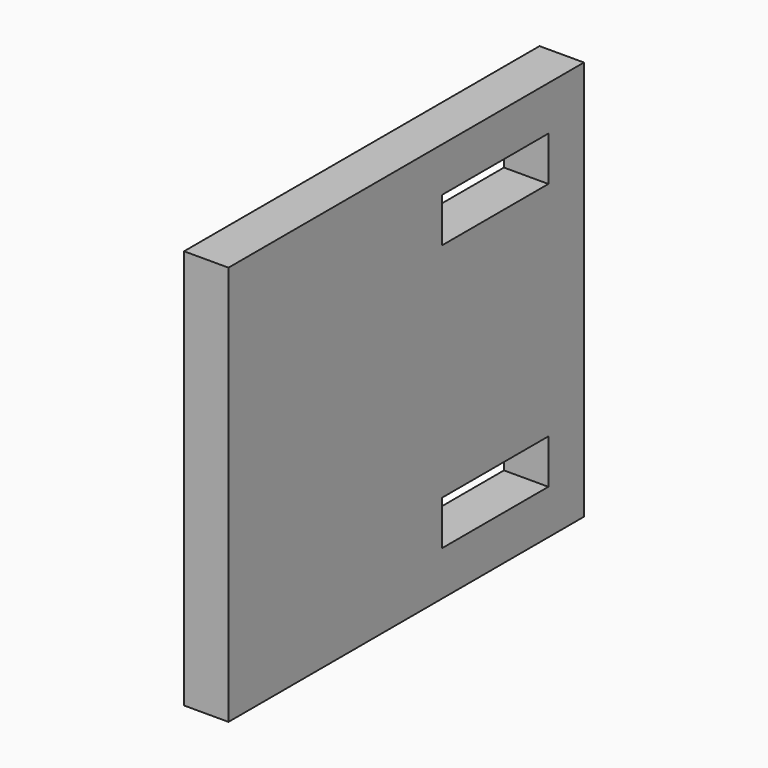
from build123d import *

# Parameters (mm, degrees)
BOX078_W               = 3
BOX078_H               = 15
BOX078_DEPTH           = 6
BOX042_W               = 3
BOX042_H               = 9
BOX042_DEPTH           = 3
BOX041_W               = 3
BOX041_H               = 15
BOX041_DEPTH           = 6
BOX044_W               = 3
BOX044_H               = 9
BOX044_DEPTH           = 3
BOX043_W               = 3
BOX043_H               = 15
BOX043_DEPTH           = 6
CUT014_PLACEMENT_ANGLE = 180
BOX040_W               = 3
BOX040_H               = 30
BOX040_DEPTH           = 15
BOX079_W               = 3
BOX079_H               = 15
BOX079_DEPTH           = 6


with BuildPart() as cube002:
    # Box078 → Box078 (new body)
    with BuildSketch(Plane(origin=(-3, 60, 15), x_dir=(1, 0, 0), z_dir=(0, 0, 1))):
        with Locations((1.5, 7.5)):
            Rectangle(BOX078_W, BOX078_H)
    extrude(amount=BOX078_DEPTH)


with BuildPart() as obj1:
    # Box042 → Box042 (new body)
    with BuildSketch(Plane(origin=(0, 3, 0), x_dir=(1, 0, 0), z_dir=(0, 0, 1))):
        with Locations((1.5, 4.5)):
            Rectangle(BOX042_W, BOX042_H)
    extrude(amount=BOX042_DEPTH)


with BuildPart() as loop004:
    # Box041 → Box041 (new body)
    with BuildSketch(Plane.XY):
        with Locations((1.5, 7.5)):
            Rectangle(BOX041_W, BOX041_H)
    extrude(amount=BOX041_DEPTH)

    # Cut013: cut obj1
    add(obj1.part, mode=Mode.SUBTRACT)


with BuildPart() as loop004_1:
    # Cut013 placement: moved
    add(loop004.part.moved(Location((30, 75, 15))))


with BuildPart() as obj2:
    # Box044 → Box044 (new body)
    with BuildSketch(Plane(origin=(0, 3, 0), x_dir=(1, 0, 0), z_dir=(0, 0, 1))):
        with Locations((1.5, 4.5)):
            Rectangle(BOX044_W, BOX044_H)
    extrude(amount=BOX044_DEPTH)


with BuildPart() as loop005:
    # Box043 → Box043 (new body)
    with BuildSketch(Plane.XY):
        with Locations((1.5, 7.5)):
            Rectangle(BOX043_W, BOX043_H)
    extrude(amount=BOX043_DEPTH)

    # Cut014: cut obj2
    add(obj2.part, mode=Mode.SUBTRACT)


with BuildPart() as loop005_1:
    # Cut014 placement: moved
    add(loop005.part.moved(Location((33, 75, 0))).rotate(Axis((33, 75, 0), (0, 1, 0)), CUT014_PLACEMENT_ANGLE))


with BuildPart() as sideplate002:
    # Box040 → Box040 (new body)
    with BuildSketch(Plane(origin=(30, 60, 0), x_dir=(1, 0, 0), z_dir=(0, 0, 1))):
        with Locations((1.5, 15)):
            Rectangle(BOX040_W, BOX040_H)
    extrude(amount=BOX040_DEPTH)

    # Fusion010: union Loop004, Loop005
    add(loop004_1.part)
    add(loop005_1.part)


with BuildPart() as sideplate002_1:
    # Fusion010 placement: moved
    add(sideplate002.part.moved(Location((-33, 0, 0))))


with BuildPart() as fusion023:
    # Box079 → Box079 (new body)
    with BuildSketch(Plane(origin=(-3, 60, -6), x_dir=(1, 0, 0), z_dir=(0, 0, 1))):
        with Locations((1.5, 7.5)):
            Rectangle(BOX079_W, BOX079_H)
    extrude(amount=BOX079_DEPTH)

    # Fusion023: union Cube002, SidePlate002
    add(cube002.part)
    add(sideplate002_1.part)


solid = fusion023.part
